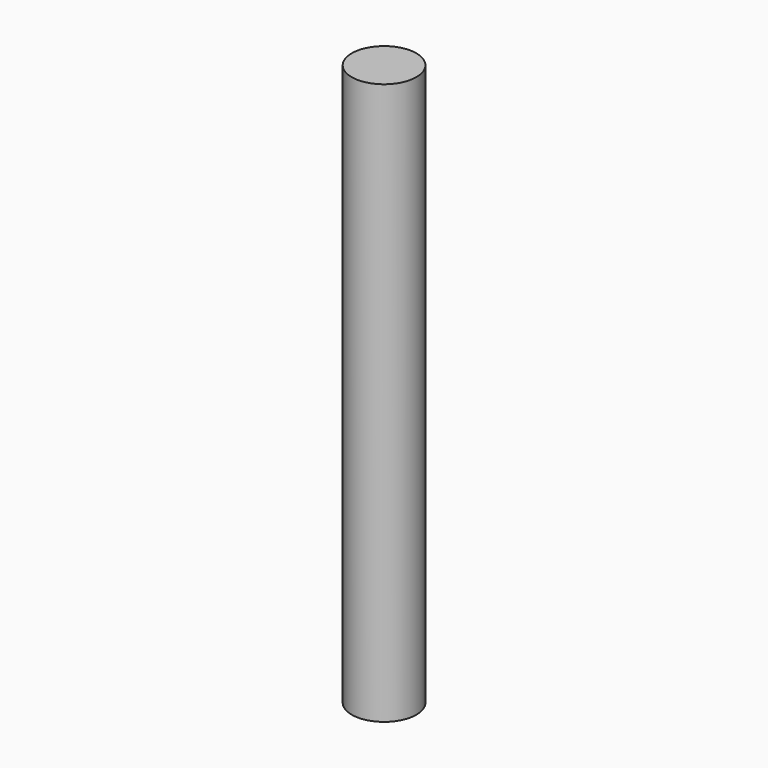
from build123d import *

# Parameters (mm, degrees)
SKETCH_R  = 2.995
PAD_DEPTH = 52


with BuildPart() as part:
    # Sketch → Pad (new body)
    with BuildSketch(Plane.XY):
        Circle(SKETCH_R)
    extrude(amount=PAD_DEPTH)


solid = part.part
